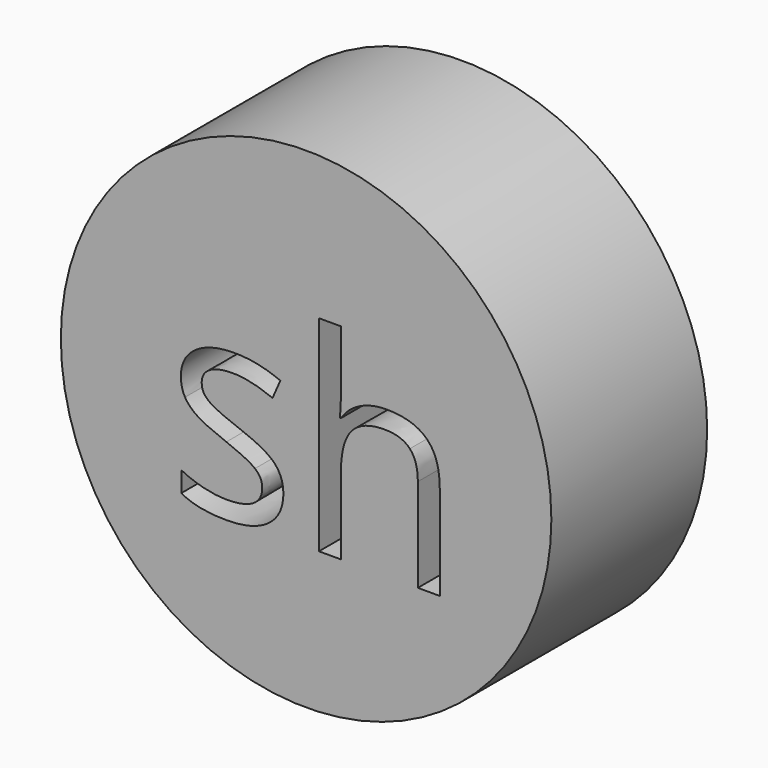
from build123d import *

# Parameters (mm, degrees)
F0_R     = 31.9884370587
F1_DEPTH = 25.4


with BuildPart() as f1:
    # F0 (on Front) → F1 (new body)
    with BuildSketch(Plane.XZ):
        Circle(F0_R)
        with BuildLine():
            add(Edge.make_bspline(
                [(-4.1474287559, -5.2462848568), (-2.9695766051, -6.4846808097), (-2.9695766051, -8.3615386761)],
                knots=[0, 0, 0, 1, 1, 1], degree=2))
            add(Edge.make_bspline(
                [(-2.9695766051, -8.3615386761), (-2.9695766051, -10.9924420782), (-4.9289942017, -12.4207254106)],
                knots=[0, 0, 0, 1, 1, 1], degree=2))
            add(Edge.make_bspline(
                [(-4.9289942017, -12.4207254106), (-6.8884117983, -13.8490087429), (-10.4329762146, -13.8490087429)],
                knots=[0, 0, 0, 1, 1, 1], degree=2))
            add(Edge.make_bspline(
                [(-10.4329762146, -13.8490087429), (-14.1811879653, -13.8490087429), (-16.2782051122, -12.6601486281)],
                knots=[0, 0, 0, 1, 1, 1], degree=2))
            Line((-16.2782051122, -12.6601486281), (-16.2782051122, -10.0127332799))
            add(Edge.make_bspline(
                [(-16.2782051122, -10.0127332799), (-14.9187215551, -10.7007310315), (-13.3638466364, -11.0942657455)],
                knots=[0, 0, 0, 1, 1, 1], degree=2))
            add(Edge.make_bspline(
                [(-13.3638466364, -11.0942657455), (-11.8089717178, -11.4878004594), (-10.3614244484, -11.4878004594)],
                knots=[0, 0, 0, 1, 1, 1], degree=2))
            add(Edge.make_bspline(
                [(-10.3614244484, -11.4878004594), (-8.1268077512, -11.4878004594), (-6.9241876814, -10.7750347887)],
                knots=[0, 0, 0, 1, 1, 1], degree=2))
            add(Edge.make_bspline(
                [(-6.9241876814, -10.7750347887), (-5.7215676115, -10.0622691181), (-5.7215676115, -8.5982099026)],
                knots=[0, 0, 0, 1, 1, 1], degree=2))
            add(Edge.make_bspline(
                [(-5.7215676115, -8.5982099026), (-5.7215676115, -7.4974135001), (-6.6737564998, -6.7158480542)],
                knots=[0, 0, 0, 1, 1, 1], degree=2))
            add(Edge.make_bspline(
                [(-6.6737564998, -6.7158480542), (-7.625945388, -5.9342826084), (-10.3999523225, -4.8665100979)],
                knots=[0, 0, 0, 1, 1, 1], degree=2))
            add(Edge.make_bspline(
                [(-10.3999523225, -4.8665100979), (-13.0308557246, -3.8868012996), (-14.1399081002, -3.1547716919)],
                knots=[0, 0, 0, 1, 1, 1], degree=2))
            add(Edge.make_bspline(
                [(-14.1399081002, -3.1547716919), (-15.2489604758, -2.4227420842), (-15.7911027041, -1.495321115)],
                knots=[0, 0, 0, 1, 1, 1], degree=2))
            add(Edge.make_bspline(
                [(-15.7911027041, -1.495321115), (-16.3332449324, -0.5679001459), (-16.3332449324, 0.7200316452)],
                knots=[0, 0, 0, 1, 1, 1], degree=2))
            add(Edge.make_bspline(
                [(-16.3332449324, 0.7200316452), (-16.3332449324, 3.0262001086), (-14.456387066, 4.3609157467)],
                knots=[0, 0, 0, 1, 1, 1], degree=2))
            add(Edge.make_bspline(
                [(-14.456387066, 4.3609157467), (-12.5795291996, 5.6956313848), (-9.3156678659, 5.6956313848)],
                knots=[0, 0, 0, 1, 1, 1], degree=2))
            add(Edge.make_bspline(
                [(-9.3156678659, 5.6956313848), (-6.2719658128, 5.6956313848), (-3.360359328, 4.4572354319)],
                knots=[0, 0, 0, 1, 1, 1], degree=2))
            Line((-3.360359328, 4.4572354319), (-4.3785960004, 2.1345550225))
            add(Edge.make_bspline(
                [(-4.3785960004, 2.1345550225), (-7.213146737, 3.3013992092), (-9.5193152004, 3.3013992092)],
                knots=[0, 0, 0, 1, 1, 1], degree=2))
            add(Edge.make_bspline(
                [(-9.5193152004, 3.3013992092), (-11.5502845632, 3.3013992092), (-12.5822811906, 2.6656892867)],
                knots=[0, 0, 0, 1, 1, 1], degree=2))
            add(Edge.make_bspline(
                [(-12.5822811906, 2.6656892867), (-13.614277818, 2.0299793642), (-13.614277818, 0.9126710156)],
                knots=[0, 0, 0, 1, 1, 1], degree=2))
            add(Edge.make_bspline(
                [(-13.614277818, 0.9126710156), (-13.614277818, 0.1531214978), (-13.2262470861, -0.3780127664)],
                knots=[0, 0, 0, 1, 1, 1], degree=2))
            add(Edge.make_bspline(
                [(-13.2262470861, -0.3780127664), (-12.8382163542, -0.9091470306), (-11.9795951602, -1.3907454568)],
                knots=[0, 0, 0, 1, 1, 1], degree=2))
            add(Edge.make_bspline(
                [(-11.9795951602, -1.3907454568), (-11.1209739662, -1.8723438829), (-8.6772059525, -2.786004897)],
                knots=[0, 0, 0, 1, 1, 1], degree=2))
            add(Edge.make_bspline(
                [(-8.6772059525, -2.786004897), (-5.3252809066, -4.0078889039), (-4.1474287559, -5.2462848568)],
                knots=[0, 0, 0, 1, 1, 1], degree=2))
        make_face(mode=Mode.SUBTRACT)
        with BuildLine():
            Line((17.4336847166, -13.5022578761), (14.5771180519, -13.5022578761))
            Line((14.5771180519, -13.5022578761), (14.5771180519, -1.3054337356))
            add(Edge.make_bspline(
                [(14.5771180519, -1.3054337356), (14.5771180519, 0.9952307458), (13.5286094785, 2.1318030315)],
                knots=[0, 0, 0, 1, 1, 1], degree=2))
            add(Edge.make_bspline(
                [(13.5286094785, 2.1318030315), (12.480100905, 3.2683753171), (10.2399802258, 3.2683753171)],
                knots=[0, 0, 0, 1, 1, 1], degree=2))
            add(Edge.make_bspline(
                [(10.2399802258, 3.2683753171), (7.2678299388, 3.2683753171), (5.9000904086, 1.6502046053)],
                knots=[0, 0, 0, 1, 1, 1], degree=2))
            add(Edge.make_bspline(
                [(5.9000904086, 1.6502046053), (4.5323508784, 0.0320338936), (4.5323508784, -3.644626091)],
                knots=[0, 0, 0, 1, 1, 1], degree=2))
            Line((4.5323508784, -3.644626091), (4.5323508784, -13.5022578761))
            Line((4.5323508784, -13.5022578761), (1.6757842138, -13.5022578761))
            Line((1.6757842138, -13.5022578761), (1.6757842138, 13.2636066525))
            Line((1.6757842138, 13.2636066525), (4.5323508784, 13.2636066525))
            Line((4.5323508784, 13.2636066525), (4.5323508784, 5.1617451295))
            add(Edge.make_bspline(
                [(4.5323508784, 5.1617451295), (4.5323508784, 3.6976859141), (4.3947513281, 2.7344890619)],
                knots=[0, 0, 0, 1, 1, 1], degree=2))
            Line((4.3947513281, 2.7344890619), (4.5653747705, 2.7344890619))
            add(Edge.make_bspline(
                [(4.5653747705, 2.7344890619), (5.4074840185, 4.0939726191), (6.9651109281, 4.8755380649)],
                knots=[0, 0, 0, 1, 1, 1], degree=2))
            add(Edge.make_bspline(
                [(6.9651109281, 4.8755380649), (8.5227378378, 5.6571035107), (10.5151793264, 5.6571035107)],
                knots=[0, 0, 0, 1, 1, 1], degree=2))
            add(Edge.make_bspline(
                [(10.5151793264, 5.6571035107), (13.9716800305, 5.6571035107), (15.7026823736, 4.0141648799)],
                knots=[0, 0, 0, 1, 1, 1], degree=2))
            add(Edge.make_bspline(
                [(15.7026823736, 4.0141648799), (17.4336847166, 2.371226249), (17.4336847166, -1.2063620593)],
                knots=[0, 0, 0, 1, 1, 1], degree=2))
            Line((17.4336847166, -1.2063620593), (17.4336847166, -13.5022578761))
        make_face(mode=Mode.SUBTRACT)
    extrude(amount=F1_DEPTH)


solid = f1.part
